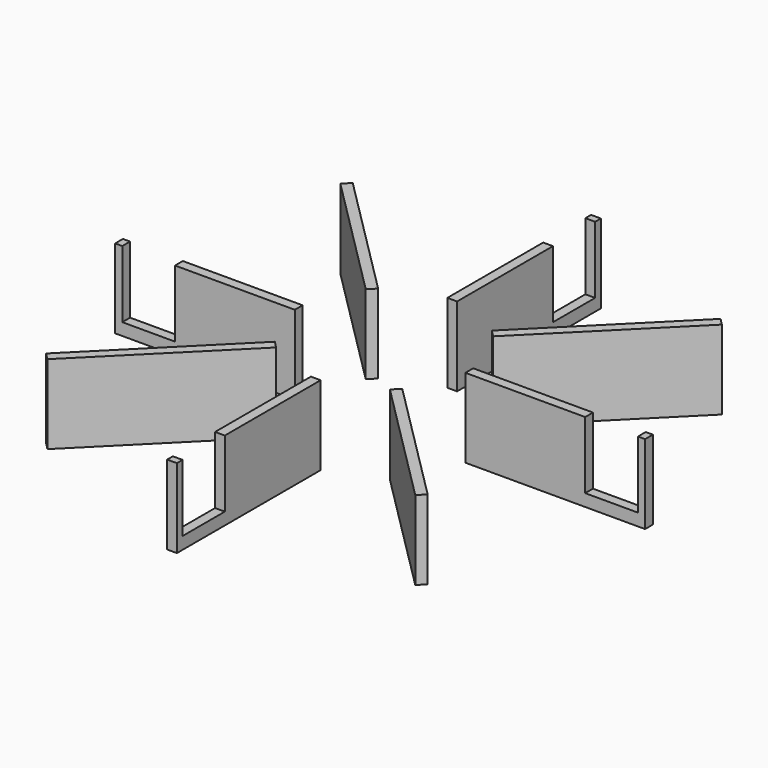
from build123d import *

# Parameters (mm, degrees)
EXTRUDE010_DEPTH      = 11
ARRAY007_COUNT        = 4
SKETCH011_W           = 1.6
SKETCH011_H           = 29.5
EXTRUDE011_DEPTH      = 9
EXTRUDE011_DEPTH_BACK = 4
ARRAY006_COUNT        = 8


with BuildPart() as array007:
    # Sketch010 → Extrude010 (new body)
    with BuildSketch(Plane.XY):
        Polygon((-5, 38), (-2.5, 33.669873), (2.5, 33.669873), (5, 38), (2.5, 42.330127), (-2.5, 42.330127), align=None)
    extrude(amount=EXTRUDE010_DEPTH)

    # Array007: Array007 ×4 about axis
    array007_axis = Axis((0, 0, 0), (0, 0, 1))


with BuildPart() as array007_1:
    add(array007.part)
    for i in range(1, ARRAY007_COUNT):
        add(array007.part.rotate(array007_axis, i * 360 / ARRAY007_COUNT))


with BuildPart() as cut002:
    # Sketch011 → Extrude011 (new body, two sides)
    with BuildSketch(Plane.XY.offset(2)) as extrude011_sk:
        with Locations((0, 28.75)):
            Rectangle(SKETCH011_W, SKETCH011_H)
    extrude(amount=EXTRUDE011_DEPTH)
    extrude(extrude011_sk.sketch, amount=-EXTRUDE011_DEPTH_BACK)

    # Array006: Cut002 ×8 about axis
    array006_axis = Axis((0, 0, 0), (0, 0, 1))


with BuildPart() as cut002_1:
    add(cut002.part)
    for i in range(1, ARRAY006_COUNT):
        add(cut002.part.rotate(array006_axis, i * 360 / ARRAY006_COUNT))

    # Cut002: cut Array007
    add(array007_1.part, mode=Mode.SUBTRACT)


solid = cut002_1.part
